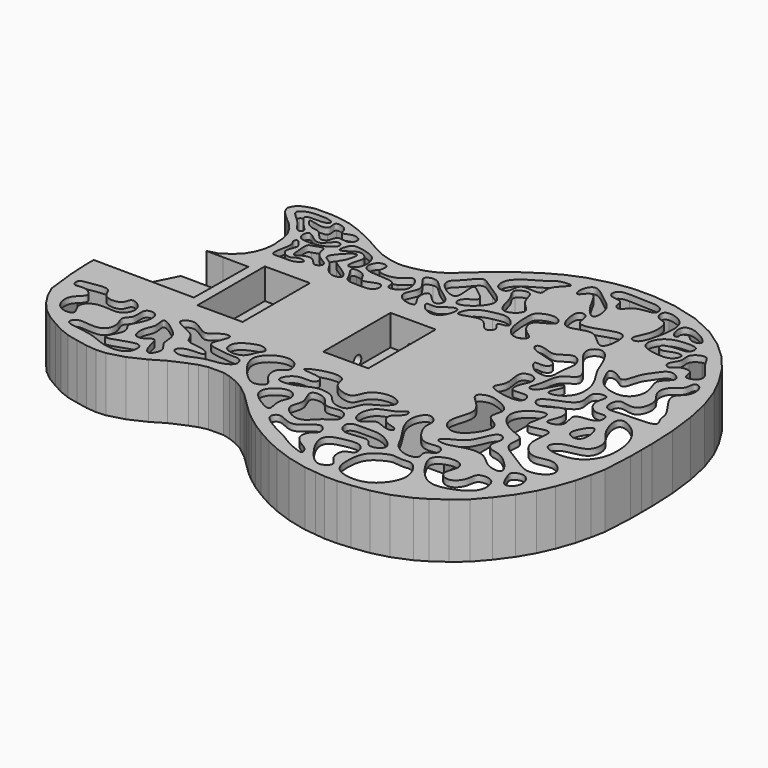
from build123d import *

# Parameters (mm, degrees)
F1_DEPTH  = 5
F0_W      = 37
F0_H      = 69
F2_DEPTH  = 45
F3_DEPTH  = 25
F5_DEPTH  = 25
F6_R      = 4
F7_DEPTH  = 70
F8_R      = 4
F9_DEPTH  = 25
F10_R     = 3.25
F11_DEPTH = 25


with BuildPart() as f1:
    # F0 (on Top) → F1 (new body)
    with BuildSketch(Plane.XY):
        Polygon((-32.4707221198, -37.5104174018), (-332.6976632937, -37.5104174018), (-330.1664699459, -59.6727294792), (-326.3164777328, -68.141276919), (-321.1990287247, -76.0670376853), (-315.3376945663, -82.7219951779), (-308.2899493936, -88.4389698845), (-300.2615013282, -93.1222217788), (-292.73369955, -97.2601737095), (-284.6238464813, -100.4635403496), (-276.4012554364, -102.3133118183), (-267.4110661204, -104.1206262782), (-259.5636443201, -104.8899778526), (-252.525781373, -104.4242236226), (-240.2226259941, -101.0672872094), (-227.2094853431, -94.9748419519), (-216.8735765614, -88.7743225781), (-203.5756291108, -82.9644193665), (-196.737869432, -80.4151739458), (-189.0469780458, -78.7063657042), (-182.0055302189, -78.7063657042), (-175.2989082533, -78.7063657042), (-168.2138558983, -80.5705469802), (-160.8461364602, -83.49376841), (-153.1638915171, -87.6296701655), (-143.6366753027, -95.2042649222), (-135.1231850103, -103.4952493392), (-126.4847691489, -111.9189775673), (-120.4594141441, -117.0085071776), (-111.7494054282, -123.5136995342), (-102.8318567647, -129.1780300241), (-91.8738462321, -135.2882024344), (-81.6369309775, -139.9880499841), (-68.028673885, -144.9071455937), (-52.8047885679, -148.5560938327), (-43.3757851925, -149.603599269), (-35.5509611242, -150.4728900544), (-25.7415568384, -150.4728900544), (-15.3551489634, -149.6004536665), (-1.8048834636, -147.8150458408), (11.1962549184, -144.5137232203), (24.9347631917, -138.8333269755), (33.1140013647, -134.0288175472), (43.3841854483, -126.7989866244), (53.2908534105, -118.5448005533), (62.4257298021, -107.8546168551), (71.1438518828, -96.092352497), (78.2274161373, -84.0106310892), (83.5470142656, -72.1217389918), (88.3698182777, -58.2846753202), (91.2130415087, -46.2819464495), (93.3961476238, -35.4721528315), (94.6682286335, -11.2005859815), (94.6390244633, -0.0065222339), (94.6390244633, 10.6171052227), (93.6788526862, 32.4875615523), (91.0254153791, 53.8212449231), (87.0244372349, 72.5626783849), (81.282279198, 89.0583270318), (74.6125621588, 102.3977611103), (65.5114178648, 116.8340649069), (54.7962535194, 129.6298352531), (42.4133339053, 140.9721790671), (28.8660343473, 150.3828906036), (11.3767548051, 158.5583644658), (-9.2508647454, 163.9757218982), (-27.3291505393, 165.9611943296), (-43.1606593797, 165.9611943296), (-57.5648239554, 163.992283642), (-75.5482938825, 159.2873154462), (-88.493622334, 153.9020564185), (-99.9635118164, 147.5414829057), (-114.4767629266, 137.7953436153), (-125.868587558, 129.0405176417), (-137.9815032852, 117.9995461195), (-147.5662408898, 109.6551843164), (-155.4438037926, 105.0002622746), (-162.7236512832, 102.136058235), (-171.6353374821, 99.9370587465), (-179.1198121422, 98.9140030828), (-184.2962689757, 98.9140030828), (-192.4959067549, 100.4227136195), (-201.2982580111, 103.1216461978), (-210.3323646076, 107.6951211064), (-221.0060126322, 113.7317332933), (-227.4862957981, 116.8668471748), (-235.1548788294, 120.2278625989), (-242.6740490508, 122.970884991), (-249.9127298278, 124.478687257), (-258.0596902072, 125.4968858316), (-265.8642775843, 125.4968858316), (-271.5373187977, 125.4968858316), (-275.8313990771, 124.4454513309), (-279.2689357913, 122.9365418451), (-280.6768574545, 121.8103902971), (-281.3687829974, 120.5420846901), (-281.5725158072, 120.0532065974), (-280.5150750404, 117.7876180559), (-278.2715742582, 115.4614216467), (-274.1347612856, 111.6354937058), (-269.1737946345, 107.4644677365), (-263.925164658, 101.484494804), (-259.8912149749, 94.3001774597), (-257.7818686249, 86.2363168129), (-256.7493646823, 74.4030907107), (-257.8574397676, 65.9091289259), (-258.7365360241, 63.3122452122), (-32.4707221198, 62.4895825982), align=None)
    extrude(amount=-F1_DEPTH)

    # F0 (on Top) → F2 (join)
    with BuildSketch(Plane.XY):
        Polygon((-338.5531406885, -21.6804166221), (-337.7301698558, -37.5104174018), (-332.6976632937, -37.5104174018), (-32.4707221198, -37.5104174018), (-32.4707221198, 62.4895825982), (-258.7365360241, 63.3122452122), (-259.2727711935, 61.7281861654), (-260.5704437718, 57.8948121073), (-265.3429831176, 49.9837478403), (-271.9109243858, 44.0363982072), (-276.4445635712, 41.059576807), (-255.3737163544, 40.8314141162), (-255.9707221198, -14.3021277744), (-338.5531406885, -13.5647143556), align=None)
        with Locations((-228.9707221198, 13.3314141162)):
            Rectangle(F0_W, F0_H, mode=Mode.SUBTRACT)
        with Locations((-125.9707221198, 13.3314141162)):
            Rectangle(F0_W, F0_H, mode=Mode.SUBTRACT)
        Polygon((99.6685702565, -11.3250039883), (99.6390244765, 0), (99.6390244765, 10.7268091013), (98.6652787851, 32.9064472961), (95.9604503006, 54.6533166519), (91.8491035672, 73.9117400835), (85.8984660273, 91.0062932904), (78.974090233, 104.855044879), (69.561272233, 119.7857278614), (58.4173528474, 133.0935063161), (45.5423432318, 144.8865882564), (31.3690085066, 154.732178814), (13.0843307664, 163.2794665729), (-8.3379563824, 168.9055246947), (-27.0554076096, 170.9611943429), (-43.5008038396, 170.9611943429), (-58.5396799613, 168.9055246947), (-77.1489371196, 164.0368334225), (-90.6731092901, 158.4107753008), (-102.5743843698, 151.8109789247), (-117.3968667758, 141.8571803538), (-129.0817481398, 132.8771349113), (-141.3076026377, 121.7332192442), (-150.5040343589, 113.7269120561), (-157.644796432, 109.5073721833), (-164.2445928081, 106.9107294012), (-172.5754794144, 104.855044879), (-179.4599566021, 103.9140030961), (-183.8401046529, 103.9140030961), (-191.3066806823, 105.2878323105), (-199.4225345395, 107.7762745162), (-207.9712353241, 112.1040149654), (-218.6841558711, 118.1628382077), (-225.3932460592, 121.408647263), (-233.2926838898, 124.8708425971), (-241.3003148598, 127.7920573604), (-249.091544677, 129.4149544511), (-257.7484534749, 130.4968858449), (-265.8642775843, 130.4968858449), (-272.140550593, 130.4968858449), (-277.4429068598, 129.1985681723), (-281.8795692721, 127.2510916635), (-284.5848439752, 125.0872288759), (-285.8833996311, 122.7069649356), (-286.9655095123, 120.1103295904), (-286.2080087971, 118.1628382077), (-284.6930668625, 114.9170440262), (-281.7713463848, 111.8876286866), (-277.4429068598, 107.8844750926), (-272.6816055336, 103.8813214985), (-268.0284973468, 98.5798502319), (-264.5657516764, 92.4128264133), (-262.7261708278, 85.3802574796), (-261.7777280237, 74.5104315317), (-262.7516150176, 67.0450900405), (-264.0087674214, 63.3314141162), (-258.7365360241, 63.3122452122), (-257.8574397676, 65.9091289259), (-256.7493646823, 74.4030907107), (-257.7818686249, 86.2363168129), (-259.8912149749, 94.3001774597), (-263.925164658, 101.484494804), (-269.1737946345, 107.4644677365), (-274.1347612856, 111.6354937058), (-278.2715742582, 115.4614216467), (-280.5150750404, 117.7876180559), (-281.5725158072, 120.0532065974), (-281.3687829974, 120.5420846901), (-280.6768574545, 121.8103902971), (-279.2689357913, 122.9365418451), (-275.8313990771, 124.4454513309), (-271.5373187977, 125.4968858316), (-265.8642775843, 125.4968858316), (-258.0596902072, 125.4968858316), (-249.9127298278, 124.478687257), (-242.6740490508, 122.970884991), (-235.1548788294, 120.2278625989), (-227.4862957981, 116.8668471748), (-221.0060126322, 113.7317332933), (-210.3323646076, 107.6951211064), (-201.2982580111, 103.1216461978), (-192.4959067549, 100.4227136195), (-184.2962689757, 98.9140030828), (-179.1198121422, 98.9140030828), (-171.6353374821, 99.9370587465), (-162.7236512832, 102.136058235), (-155.4438037926, 105.0002622746), (-147.5662408898, 109.6551843164), (-137.9815032852, 117.9995461195), (-125.868587558, 129.0405176417), (-114.4767629266, 137.7953436153), (-99.9635118164, 147.5414829057), (-88.493622334, 153.9020564185), (-75.5482938825, 159.2873154462), (-57.5648239554, 163.992283642), (-43.1606593797, 165.9611943296), (-27.3291505393, 165.9611943296), (-9.2508647454, 163.9757218982), (11.3767548051, 158.5583644658), (28.8660343473, 150.3828906036), (42.4133339053, 140.9721790671), (54.7962535194, 129.6298352531), (65.5114178648, 116.8340649069), (74.6125621588, 102.3977611103), (81.282279198, 89.0583270318), (87.0244372349, 72.5626783849), (91.0254153791, 53.8212449231), (93.6788526862, 32.4875615523), (94.6390244633, 10.6171052227), (94.6390244633, -0.0065222339), (94.6682286335, -11.2005859815), (93.3961476238, -35.4721528315), (91.2130415087, -46.2819464495), (88.3698182777, -58.2846753202), (83.5470142656, -72.1217389918), (78.2274161373, -84.0106310892), (71.1438518828, -96.092352497), (62.4257298021, -107.8546168551), (53.2908534105, -118.5448005533), (43.3841854483, -126.7989866244), (33.1140013647, -134.0288175472), (24.9347631917, -138.8333269755), (11.1962549184, -144.5137232203), (-1.8048834636, -147.8150458408), (-15.3551489634, -149.6004536665), (-25.7415568384, -150.4728900544), (-35.5509611242, -150.4728900544), (-43.3757851925, -149.603599269), (-52.8047885679, -148.5560938327), (-68.028673885, -144.9071455937), (-81.6369309775, -139.9880499841), (-91.8738462321, -135.2882024344), (-102.8318567647, -129.1780300241), (-111.7494054282, -123.5136995342), (-120.4594141441, -117.0085071776), (-126.4847691489, -111.9189775673), (-135.1231850103, -103.4952493392), (-143.6366753027, -95.2042649222), (-153.1638915171, -87.6296701655), (-160.8461364602, -83.49376841), (-168.2138558983, -80.5705469802), (-175.2989082533, -78.7063657042), (-182.0055302189, -78.7063657042), (-189.0469780458, -78.7063657042), (-196.737869432, -80.4151739458), (-203.5756291108, -82.9644193665), (-216.8735765614, -88.7743225781), (-227.2094853431, -94.9748419519), (-240.2226259941, -101.0672872094), (-252.525781373, -104.4242236226), (-259.5636443201, -104.8899778526), (-267.4110661204, -104.1206262782), (-276.4012554364, -102.3133118183), (-284.6238464813, -100.4635403496), (-292.73369955, -97.2601737095), (-300.2615013282, -93.1222217788), (-308.2899493936, -88.4389698845), (-315.3376945663, -82.7219951779), (-321.1990287247, -76.0670376853), (-326.3164777328, -68.141276919), (-330.1664699459, -59.6727294792), (-332.6976632937, -37.5104174018), (-337.7301698558, -37.5104174018), (-335.0446588417, -61.0238851628), (-330.7161895688, -70.5449037392), (-325.1974470232, -79.0921766242), (-318.8129511272, -86.3411318366), (-311.1413121223, -92.5641953945), (-302.7258515358, -97.4732041359), (-294.864917595, -101.7942752449), (-286.0998156577, -105.2564631421), (-277.4429068598, -107.2039396509), (-268.1495845318, -109.0721935034), (-259.6430182457, -109.9061667919), (-251.6943133457, -109.3801345349), (-238.4918385579, -105.7778173248), (-224.8572124071, -99.3944072274), (-214.5771387873, -93.2273834088), (-201.6999836038, -87.6013252871), (-195.3155174557, -85.2210762207), (-188.4982043803, -83.7063648324), (-182.0055302189, -83.7063648324), (-175.9456881108, -83.7063648324), (-169.7776379894, -85.3292693601), (-162.9603397879, -88.0341052816), (-155.9265958119, -91.8208725969), (-146.9450481001, -98.9616346699), (-138.6127782162, -107.0761349974), (-129.8476614049, -115.6234153194), (-123.5714032702, -120.924879149), (-114.5898629953, -127.6328686645), (-105.3918918198, -133.475320502), (-94.1379163322, -139.750522586), (-83.5332037984, -144.6192287321), (-69.4657307204, -149.7043211569), (-53.6668773701, -153.4910810352), (-43.927858691, -154.573027303), (-35.8278443603, -155.4728900677), (-25.531931214, -155.4728900677), (-14.8190106669, -154.573027303), (-0.8597464737, -152.7337290596), (12.7748759005, -149.2715485994), (27.1669851036, -143.3209110595), (35.823890183, -138.2358186347), (46.4286027167, -130.7704920175), (56.8168955053, -122.1150185561), (66.3394907208, -110.971102889), (75.3210309956, -98.8534415305), (82.6793990117, -86.3030150515), (88.1981787422, -73.9689674143), (93.1758960951, -59.6874432682), (96.0976016988, -47.3533993494), (98.3700369116, -36.1012868244), align=None)
        Polygon((-311.1413121223, 41.4352856444), (-338.5531406885, -13.5647143556), (-255.9707221198, -14.3021277744), (-255.3737163544, 40.8314141162), (-276.4445635712, 41.059576807), (-290.1576502376, 41.2080670277), align=None)
        with Locations((-125.9707221198, 13.3314141162)):
            Rectangle(F0_W, F0_H)
        with Locations((-228.9707221198, 13.3314141162)):
            Rectangle(F0_W, F0_H)
        Polygon((-258.7365360241, 63.3122452122), (-264.0087674214, 63.3314141162), (-265.1322805547, 60.0125136699), (-269.244304053, 53.1963347334), (-274.9794923732, 48.0030528877), (-282.2296523759, 43.2425435995), (-290.1576502376, 41.2080670277), (-276.4445635712, 41.059576807), (-271.9109243858, 44.0363982072), (-265.3429831176, 49.9837478403), (-260.5704437718, 57.8948121073), (-259.2727711935, 61.7281861654), align=None)
    extrude(amount=-F2_DEPTH)

    # F0 (on Top) → F3 (cut)
    with BuildSketch(Plane.XY):
        Polygon((-311.1413121223, 41.4352856444), (-338.5531406885, -13.5647143556), (-255.9707221198, -14.3021277744), (-255.3737163544, 40.8314141162), (-276.4445635712, 41.059576807), (-290.1576502376, 41.2080670277), align=None)
        with Locations((-228.9707221198, 13.3314141162)):
            Rectangle(F0_W, F0_H)
        with Locations((-125.9707221198, 13.3314141162)):
            Rectangle(F0_W, F0_H)
    extrude(amount=-F3_DEPTH, mode=Mode.SUBTRACT)

    # F4 (on face) → F5 (cut)
    with BuildSketch(Plane.XY):
        with BuildLine():
            add(Edge.make_bspline(
                [(-255.8690607548, 119.108363986), (-253.3976972977, 119.5907813306), (-250.7751103391, 121.91547954), (-256.9217740027, 124.8973901668), (-265.7136550596, 124.7700939361), (-272.9030152945, 124.5628382395), (-282.840576449, 118.9415438811), (-268.5651389288, 110.1507747574), (-263.1897171432, 98.2606527334), (-257.3958106227, 101.7867096734), (-262.4062968702, 106.3303129286), (-266.5234130241, 111.1861969146), (-274.2161424459, 120.3378180618), (-260.3126971884, 118.2409532123), (-255.8690607548, 119.108363986)],
                knots=[0, 0, 0, 0, 0.0633142811, 0.1294244789, 0.2204338031, 0.305103609, 0.3854733268, 0.4963743474, 0.6012940766, 0.655800124, 0.7237420536, 0.8089722942, 0.8861577218, 1, 1, 1, 1], degree=3))
        make_face()
        with BuildLine():
            add(Edge.make_bspline(
                [(-258.9418292046, 109.1580614448), (-256.1571885664, 107.7627157178), (-250.9470195975, 109.3259529934), (-245.1342785004, 99.6360976369), (-241.6014338926, 99.2666264633), (-237.5382998149, 101.0908265668), (-237.0826171444, 110.5953806278), (-226.0256219284, 105.0542275052), (-221.5930228555, 114.383478613), (-230.2470393119, 118.6217130046), (-239.2886215227, 112.0887489165), (-237.9711941448, 121.4309517105), (-252.0101905977, 125.0629646308), (-246.9407792152, 114.5038921528), (-255.620847685, 112.8341621997), (-268.3677393951, 118.1683482788), (-261.8227237998, 110.6016387265), (-258.9418292046, 109.1580614448)],
                knots=[0, 0, 0, 0, 0.0702906668, 0.148667965, 0.1928547493, 0.2421776967, 0.3073772813, 0.3817742654, 0.4463780167, 0.5147160254, 0.5850216751, 0.6455732937, 0.7218017618, 0.7856345935, 0.8524051324, 0.9272796643, 1, 1, 1, 1], degree=3))
        make_face()
        with BuildLine():
            add(Edge.make_bspline(
                [(-246.670410037, 91.4388746023), (-250.4684378368, 91.390356399), (-257.1435739557, 92.3302930014), (-255.327671651, 107.3290489408), (-240.6883714451, 88.294094462), (-233.4056887725, 105.885509354), (-225.8776462382, 100.4239440029), (-233.2236630181, 93.0490581828), (-242.0081585018, 91.4984328994), (-246.670410037, 91.4388746023)],
                knots=[0, 0, 0, 0, 0.1406333922, 0.2639657739, 0.4367873692, 0.5989697719, 0.698297019, 0.827366127, 1, 1, 1, 1], degree=3))
        make_face()
        with BuildLine():
            add(Edge.make_bspline(
                [(-253.7738978863, 75.8455097675), (-253.2048132867, 79.1231333459), (-252.8819314165, 84.0887671224), (-255.8533725493, 86.2045564413), (-253.9559851889, 90.7690378573), (-249.536211095, 85.0567483909), (-247.2286751115, 81.6288762196), (-253.5632013454, 71.80007685), (-242.5661490863, 65.9131690142), (-238.7785134925, 71.5192466194), (-229.8511615796, 69.7187818786), (-237.1471136722, 63.5654549351), (-245.2743686381, 64.7945535963), (-253.1105583699, 63.5936503178), (-256.0069926042, 66.4748404432), (-254.3882848231, 72.3069689041), (-253.7738978863, 75.8455097675)],
                knots=[0, 0, 0, 0, 0.0832112387, 0.133839475, 0.1817596365, 0.2499486497, 0.3095260282, 0.3979628119, 0.4831206973, 0.5547296841, 0.6230083542, 0.6935860815, 0.7811285129, 0.8606723643, 0.9101646784, 1, 1, 1, 1], degree=3))
        make_face()
        with BuildLine():
            add(Edge.make_bspline(
                [(-228.8080602884, 73.7416446209), (-230.8200374172, 75.4415539306), (-236.2558203668, 76.7465889767), (-243.7173841073, 69.4092295121), (-244.5248872265, 78.5480973555), (-245.5563534076, 88.7252390336), (-241.2124784722, 88.7835711108), (-231.7402066095, 94.0672975969), (-233.9188692286, 80.5212389891), (-215.6190211948, 74.9407717976), (-224.5968036776, 67.4443652338), (-226.9453808745, 72.1678761961), (-228.8080602884, 73.7416446209)],
                knots=[0, 0, 0, 0, 0.1006461626, 0.198505994, 0.2913328872, 0.4043486605, 0.4735460264, 0.5729677298, 0.68282334, 0.8213508845, 0.9068222335, 1, 1, 1, 1], degree=3))
        make_face()
        with BuildLine():
            add(Edge.make_bspline(
                [(-222.3562151194, 89.0297144651), (-224.5928109825, 86.1556616783), (-226.4908701665, 81.8573918767), (-217.5742997249, 78.4997616333), (-214.3796441409, 70.8371372066), (-207.40036751, 63.9175195898), (-197.2546323404, 66.2988540936), (-204.4841743713, 75.0443761276), (-218.5609704627, 81.1640705265), (-212.360887193, 85.7214990129), (-208.4940395619, 103.4577025226), (-219.2327420356, 93.0434152276), (-222.3562151194, 89.0297144651)],
                knots=[0, 0, 0, 0, 0.0886089596, 0.1799879643, 0.2775724015, 0.3805125506, 0.4663325629, 0.564576318, 0.6860000124, 0.765347089, 0.8762549351, 1, 1, 1, 1], degree=3))
        make_face()
        with BuildLine():
            add(Edge.make_bspline(
                [(-220.6731289625, 96.3231027126), (-222.3916271932, 95.3869671169), (-226.0259297628, 94.6766623718), (-223.6327045443, 102.222260611), (-221.0668198792, 107.2463749692), (-206.9327113168, 103.938294721), (-198.9350656605, 99.5210015719), (-197.1800008946, 84.6901069223), (-208.278135028, 79.0607160103), (-206.3006319121, 90.1191865444), (-203.1993182955, 96.5608690793), (-212.326543338, 103.6027754194), (-217.9421018916, 97.8108037811), (-220.6731289625, 96.3231027126)],
                knots=[0, 0, 0, 0, 0.0640794377, 0.1428746933, 0.2147899875, 0.3306574722, 0.4286115712, 0.544448253, 0.6310870011, 0.7206478171, 0.8064490124, 0.8981653424, 1, 1, 1, 1], degree=3))
        make_face()
        with BuildLine():
            add(Edge.make_bspline(
                [(-194.0242052078, 85.5232775211), (-188.6224969432, 82.003199027), (-165.5498815286, 85.9529451001), (-171.0185423308, 71.2978996735), (-151.1187867997, 78.2670345587), (-162.7057434217, 99.3245638197), (-168.6900443179, 86.06407457), (-189.741094188, 85.9529642871), (-184.7953032385, 95.3074651454), (-189.1142568021, 99.1204471587), (-196.6238791897, 96.1651711253), (-197.4051866353, 87.7265286833), (-194.0242052078, 85.5232775211)],
                knots=[0, 0, 0, 0, 0.1536854669, 0.2345481423, 0.3425513793, 0.4617355642, 0.5581588051, 0.6811900761, 0.7600355273, 0.823388197, 0.9038067804, 1, 1, 1, 1], degree=3))
        make_face()
        with BuildLine():
            add(Edge.make_bspline(
                [(-197.670891881, 71.9183012843), (-196.204531211, 69.3745041139), (-195.362224498, 64.8417221693), (-185.2804081783, 64.8534891256), (-170.7013390838, 64.2840467184), (-172.2633325332, 79.1735603003), (-188.3519773204, 67.0818875139), (-189.3065538858, 80.2623075235), (-205.7695361308, 82.1221387198), (-199.3604537454, 74.8493009884), (-197.670891881, 71.9183012843)],
                knots=[0, 0, 0, 0, 0.105387671, 0.2293824997, 0.3744584023, 0.4843162896, 0.6291589782, 0.7507632744, 0.8785708089, 1, 1, 1, 1], degree=3))
        make_face()
        with BuildLine():
            add(Edge.make_bspline(
                [(-157.8377634287, 98.4269678593), (-157.6395566972, 95.5714064677), (-146.0281699015, 86.565690479), (-157.910773948, 74.2825219525), (-149.0777564533, 65.3730186058), (-135.5805257092, 65.1794469388), (-146.5955212521, 75.3747101085), (-142.4797963915, 89.526327794), (-131.6548268809, 71.8572164008), (-123.2647511252, 83.3342350415), (-141.4825897655, 92.8018491714), (-147.4933051844, 101.4760671754), (-153.9642258103, 102.3931011361), (-157.9556606456, 100.1255112852), (-157.8377634287, 98.4269678593)],
                knots=[0, 0, 0, 0, 0.0982290465, 0.1925813733, 0.2769317608, 0.3524626791, 0.4389504055, 0.5141935034, 0.610548115, 0.6779744843, 0.7902080259, 0.8777345962, 0.9415714537, 1, 1, 1, 1], degree=3))
        make_face()
        with BuildLine():
            add(Edge.make_bspline(
                [(-120.3890144825, 76.967574656), (-123.0189355491, 75.1521225976), (-126.4089822834, 70.937973493), (-137.1159338993, 74.2365277974), (-130.1811473047, 63.7446919953), (-115.8752382454, 61.3232365172), (-110.910958708, 81.6373225203), (-118.079790368, 78.5616474688), (-120.3890144825, 76.967574656)],
                knots=[0, 0, 0, 0, 0.1622744172, 0.3047126743, 0.4593851004, 0.6531476653, 0.8575135953, 1, 1, 1, 1], degree=3))
        make_face()
        with BuildLine():
            add(Edge.make_bspline(
                [(-141.0462260246, 99.0054532886), (-143.3833945663, 101.9565247834), (-143.2877465507, 107.1070781083), (-136.0067726211, 111.2998529234), (-128.1542246962, 124.9044240452), (-117.9897533975, 115.2042828053), (-90.374689361, 101.7903061783), (-120.0880077544, 78.5824865207), (-122.9984665284, 92.3518844729), (-107.862568231, 97.2793273129), (-118.1727361663, 104.713918582), (-129.3424915266, 114.2246077969), (-120.3253749749, 84.0629712249), (-137.6066860804, 94.6624510173), (-141.0462260246, 99.0054532886)],
                knots=[0, 0, 0, 0, 0.0650440688, 0.1329386441, 0.2165869629, 0.2980757499, 0.4118914399, 0.5267571166, 0.5872533058, 0.6664969615, 0.740066529, 0.8077099803, 0.9042766199, 1, 1, 1, 1], degree=3))
        make_face()
        with BuildLine():
            add(Edge.make_bspline(
                [(-109.7512841225, 73.7673714757), (-107.2805439255, 72.4476262008), (-90.8788688816, 83.0483537519), (-84.4137164116, 64.0619939624), (-74.8502568902, 72.680275527), (-85.7543999919, 79.9618744768), (-69.9697819171, 79.1094399077), (-80.9058042173, 91.4955689363), (-90.5724630077, 90.074147507), (-107.6009499004, 86.6065130171), (-111.6491998694, 74.78114271), (-109.7512841225, 73.7673714757)],
                knots=[0, 0, 0, 0, 0.1397738798, 0.2653851764, 0.3519832121, 0.4418082874, 0.5334231031, 0.6408080372, 0.7504075594, 0.8926317515, 1, 1, 1, 1], degree=3))
        make_face()
        with BuildLine():
            add(Edge.make_bspline(
                [(-83.1471383572, 96.8762636185), (-85.74814349, 95.2646080818), (-92.1229425561, 94.2036966066), (-95.8243863246, 104.9539674249), (-97.2886782136, 113.1336698817), (-105.105123139, 121.9621863009), (-89.242137155, 128.4691573028), (-89.5213480427, 112.4238433203), (-75.4315288527, 104.9348976034), (-80.4695688497, 98.5353605833), (-83.1471383572, 96.8762636185)],
                knots=[0, 0, 0, 0, 0.1119796135, 0.2361905449, 0.3583855295, 0.4756023822, 0.6004073127, 0.7396920069, 0.8847241035, 1, 1, 1, 1], degree=3))
        make_face()
        with BuildLine():
            add(Edge.make_bspline(
                [(-94.6148782969, 128.9316266775), (-98.1369914027, 129.2020518422), (-104.9632069917, 129.6770889493), (-102.7361409101, 116.1391255226), (-114.435881352, 117.0650955224), (-116.4730535914, 128.9155708579), (-106.4276768152, 138.1509766697), (-93.2974980904, 144.2307955016), (-89.9123086362, 149.7238580969), (-71.4227911812, 151.7874073353), (-89.8855201068, 139.609378058), (-83.5441434329, 128.033630807), (-91.1154240963, 128.6629412464), (-94.6148782969, 128.9316266775)],
                knots=[0, 0, 0, 0, 0.0836861392, 0.1725117162, 0.2510842438, 0.34014489, 0.4456327434, 0.5538325223, 0.6317571066, 0.7241448917, 0.8301968457, 0.9168522411, 1, 1, 1, 1], degree=3))
        make_face()
        with BuildLine():
            add(Edge.make_bspline(
                [(-69.319948554, 147.5109010935), (-69.4007772554, 151.2430974983), (-65.4810236901, 161.7246439417), (-50.1321404999, 147.7762115957), (-38.5653452599, 140.7187960691), (-37.1601444525, 119.9628715098), (-50.3631707732, 132.1868840574), (-56.257946845, 148.1589075228), (-62.4046192229, 149.2510578202), (-67.1454792874, 140.1475878169), (-69.2627910879, 144.8717038031), (-69.319948554, 147.5109010935)],
                knots=[0, 0, 0, 0, 0.1094935152, 0.2455206031, 0.3802063788, 0.5019291633, 0.616907277, 0.7614668786, 0.8312873791, 0.9225724058, 1, 1, 1, 1], degree=3))
        make_face()
        with BuildLine():
            add(Edge.make_bspline(
                [(-33.8497087359, 143.6371058226), (-31.4624948625, 144.3464840878), (-26.898341275, 153.3893942809), (-9.8016426039, 150.8670353138), (-12.9820718049, 163.6821923227), (-30.7125799169, 162.153678209), (-50.8702209958, 164.9675706827), (-51.1673956007, 152.2242342018), (-37.2499844644, 154.1485978641), (-38.8851927717, 145.3514839029), (-35.3540550711, 143.1900781786), (-33.8497087359, 143.6371058226)],
                knots=[0, 0, 0, 0, 0.1164293388, 0.2454351039, 0.3370707896, 0.4842039507, 0.6347780811, 0.7253910134, 0.8373160386, 0.9266299299, 1, 1, 1, 1], degree=3))
        make_face()
        with BuildLine():
            add(Edge.make_bspline(
                [(2.7040198911, 142.6888853312), (2.206936384, 144.7835979713), (0.6723791529, 147.8832619326), (-7.7033334693, 148.5418572163), (-10.085087962, 159.8184228936), (2.9608206252, 158.1169022045), (11.0103497424, 151.50443162), (11.5496853224, 139.0505517374), (8.8459536697, 126.5386023047), (4.9514248124, 113.7856955806), (-5.0627851667, 116.0726517284), (4.0534457454, 128.8777893318), (3.5218910678, 139.2423716826), (2.7040198911, 142.6888853312)],
                knots=[0, 0, 0, 0, 0.0665671033, 0.1461646862, 0.2252131264, 0.3168066958, 0.4103315915, 0.5094900192, 0.6191324739, 0.7192903977, 0.7856367909, 0.8904745092, 1, 1, 1, 1], degree=3))
        make_face()
        with BuildLine():
            add(Edge.make_bspline(
                [(17.5805725157, 136.14320755), (15.669147012, 136.7952256468), (12.8982663504, 144.0535466212), (14.728885858, 151.2520935841), (26.0687494116, 150.5400688718), (42.4179954974, 138.3551867638), (28.0097454698, 136.3548859003), (25.2357832642, 144.4349476941), (18.1954708764, 139.7504939036), (20.9228983465, 137.0295822631), (18.626915518, 135.7862830602), (17.5805725157, 136.14320755)],
                knots=[0, 0, 0, 0, 0.1260216631, 0.2314538157, 0.3709444344, 0.5344195957, 0.6530936392, 0.7649954255, 0.8642784699, 0.9310138506, 1, 1, 1, 1], degree=3))
        make_face()
        with BuildLine():
            add(Edge.make_bspline(
                [(11.2332440913, 114.3242567778), (9.4009057271, 116.6772892244), (9.819422233, 123.7733747773), (17.1746871751, 131.2462298837), (27.2837029259, 133.2857949113), (41.339281867, 133.4759913212), (38.8842456449, 123.1724482623), (29.9826830623, 124.3348140028), (16.20003207, 121.562240228), (22.6629694522, 113.6522996998), (30.5774859419, 119.0819889321), (40.2791788976, 119.3132678977), (36.5938857229, 108.9883155283), (24.180773399, 109.0202309718), (13.5314455126, 111.372977353), (11.2332440913, 114.3242567778)],
                knots=[0, 0, 0, 0, 0.0753609661, 0.1547148146, 0.2395265352, 0.3250447865, 0.387667396, 0.4636044164, 0.5478379379, 0.6061830378, 0.6836757654, 0.7509772668, 0.8170309975, 0.9054788773, 1, 1, 1, 1], degree=3))
        make_face()
        with BuildLine():
            add(Edge.make_bspline(
                [(38.0110442638, 103.6015078425), (37.856675466, 106.1880301058), (44.1700446026, 111.9058650118), (39.1065124305, 121.6862366503), (53.1238490963, 128.9996007592), (55.4489509404, 117.1977511477), (75.157081789, 100.6574372612), (56.1355834891, 92.8289782223), (58.9277088867, 106.2918290215), (45.1109103366, 105.0306033814), (42.0495507751, 98.1240212383), (38.1229120107, 101.7271108016), (38.0110442638, 103.6015078425)],
                knots=[0, 0, 0, 0, 0.0994665995, 0.1967754408, 0.3008017296, 0.4039433998, 0.5512665226, 0.6538805634, 0.7450100675, 0.8485520923, 0.9279186952, 1, 1, 1, 1], degree=3))
        make_face()
        with BuildLine():
            add(Edge.make_bspline(
                [(-51.3018667698, 115.4804453254), (-51.8115314368, 119.2623863883), (-51.3587178447, 125.040470395), (-41.906859435, 123.5412006925), (-43.9437776992, 107.6985041093), (-22.8965841072, 114.523659829), (-4.3412907712, 121.7569227283), (-7.2959377763, 92.1848606532), (-17.6642731738, 100.2514383959), (-27.6185756557, 110.7974007911), (-46.6568944291, 98.2704291556), (-50.6496589235, 110.6407697607), (-51.3018667698, 115.4804453254)],
                knots=[0, 0, 0, 0, 0.0818512813, 0.1497758068, 0.2414815902, 0.3626147497, 0.4719799925, 0.5944317151, 0.6739227832, 0.7789625695, 0.8952565258, 1, 1, 1, 1], degree=3))
        make_face()
        with BuildLine():
            add(Edge.make_bspline(
                [(-72.7661922574, 99.1810560226), (-72.707926303, 102.1889607638), (-72.390203929, 106.1731121985), (-58.1002393682, 111.8639344852), (-49.3666587787, 102.7275842723), (-59.5647295073, 97.7996236426), (-67.8795238647, 93.2222093115), (-61.9127787041, 81.434219811), (-50.7409902529, 76.7509732582), (-60.0204872763, 69.2618417579), (-72.6359312664, 76.5372149343), (-72.8715506412, 93.742065352), (-72.7661922574, 99.1810560226)],
                knots=[0, 0, 0, 0, 0.0802542624, 0.1934286228, 0.2826126668, 0.3756635296, 0.4648316149, 0.5689183661, 0.6641135347, 0.7470118891, 0.8548816461, 1, 1, 1, 1], degree=3))
        make_face()
        with BuildLine():
            add(Edge.make_bspline(
                [(-29.154535383, 51.5890307724), (-28.374376474, 52.7223321579), (-20.2124862123, 50.2084534459), (-15.512237496, 60.9191077565), (-42.3946496767, 63.605527303), (-44.1310689625, 72.1971060862), (-35.0390842764, 71.3146108894), (-26.08694051, 66.0791976945), (-15.5790302395, 78.5802882048), (-5.1897898332, 66.4818968415), (-9.7562872761, 55.6197076177), (-7.8013888112, 41.2875066508), (-17.1044841397, 41.3752724517), (-23.5344366548, 42.5320199118), (-29.9915973257, 50.3730689364), (-29.154535383, 51.5890307724)],
                knots=[0, 0, 0, 0, 0.0706133952, 0.1299404168, 0.2509313346, 0.3051558621, 0.370967732, 0.4485551067, 0.5356222821, 0.61772551, 0.7046365292, 0.7909940205, 0.8548675485, 0.9242362228, 1, 1, 1, 1], degree=3))
        make_face()
        with BuildLine():
            add(Edge.make_bspline(
                [(-4.3642041273, 46.6887578368), (-1.5320265792, 50.0404409415), (11.4039755915, 53.0422020766), (-7.5198839438, 72.5907730772), (-16.8150169324, 86.1669350486), (-5.1137921883, 95.0309402224), (4.7190102283, 80.5024601879), (8.3995348064, 66.4810340665), (21.8525578993, 50.1125677197), (20.3048585094, 26.9014006889), (-2.5965847289, 21.2174159917), (9.048765998, 36.4563944209), (2.5984021547, 40.8316155856), (-3.2125989774, 20.1871141621), (-12.7723127371, 21.9648751319), (-7.0255805643, 31.2413030366), (-7.6645869008, 42.7829867499), (-4.3642041273, 46.6887578368)],
                knots=[0, 0, 0, 0, 0.0643694202, 0.1504055194, 0.2231833822, 0.2776808971, 0.3475212723, 0.4203460021, 0.5044594911, 0.5886887898, 0.6547762347, 0.7186403077, 0.7501044801, 0.8297584289, 0.8710279288, 0.9249892629, 1, 1, 1, 1], degree=3))
        make_face()
        with BuildLine():
            add(Edge.make_bspline(
                [(25.6846975535, 54.541952908), (21.4203515973, 57.4430765956), (18.1350603045, 64.1559333835), (13.0763055763, 73.8548178432), (21.8864012927, 73.2126224438), (30.8156192408, 64.0261974755), (33.1653573048, 80.4804196614), (39.2636879467, 87.7137324953), (45.8762123242, 98.8648425721), (60.4666895162, 89.4252233025), (43.859462979, 80.997908633), (54.9718830555, 66.7013333484), (47.3465954498, 46.9217815375), (30.8376193164, 51.0363125261), (25.6846975535, 54.541952908)],
                knots=[0, 0, 0, 0, 0.0901206563, 0.1581053105, 0.2178718876, 0.291840497, 0.3755384832, 0.4574047994, 0.5372650307, 0.614630239, 0.6978940707, 0.7920450406, 0.8911006058, 1, 1, 1, 1], degree=3))
        make_face()
        with BuildLine():
            add(Edge.make_bspline(
                [(67.4814283848, 84.8375707865), (66.1110324444, 82.0141244022), (58.671786688, 79.4804251435), (56.094510448, 66.4718140996), (67.3716955052, 58.5203341359), (61.7774477416, 37.720894884), (43.5102984148, 48.5672583557), (43.353137953, 28.051461584), (58.3777197744, 32.293915508), (89.7730247111, 30.1858340798), (81.3437480313, 40.958142113), (82.5528468195, 48.251685368), (70.7249361122, 62.002095714), (67.399852011, 72.0197762017), (77.3310384724, 77.7713335479), (76.5294484207, 91.1893474983), (67.6684989892, 94.0375511293), (68.6768732513, 87.3005629675), (67.4814283848, 84.8375707865)],
                knots=[0, 0, 0, 0, 0.0587545366, 0.1193666545, 0.1854617064, 0.2568261724, 0.3245495204, 0.3863245981, 0.4556453314, 0.5501524072, 0.5995391483, 0.6505614904, 0.7289407676, 0.7846235104, 0.8423914477, 0.9057218385, 0.9487463389, 1, 1, 1, 1], degree=3))
        make_face()
        with BuildLine():
            add(Edge.make_bspline(
                [(20.3549135476, 21.721702069), (24.8397662423, 23.7650847496), (30.1808450165, 28.3112410185), (23.3484141391, 43.4128141963), (40.424615955, 45.2098778915), (32.2490068203, 32.5388805616), (42.9762175653, 19.7969920192), (53.4829560703, 24.6627986844), (54.924814203, 13.6755188487), (46.5799865405, 11.1789398242), (32.5758863, 10.9693374411), (43.029598435, -5.7294950216), (22.9632075752, -10.6137628682), (33.9666241527, 4.3717988546), (25.102085229, 18.6088982279), (10.7017919971, 2.2416460954), (-0.6801676688, 15.0596519094), (14.4888978291, 19.0490357099), (20.3549135476, 21.721702069)],
                knots=[0, 0, 0, 0, 0.0621466883, 0.1280738006, 0.1844114943, 0.2439994671, 0.3139545458, 0.3690824924, 0.418674334, 0.4728799089, 0.5321760161, 0.5996936973, 0.6600629328, 0.7259543572, 0.7881541881, 0.8645731939, 0.9187145096, 1, 1, 1, 1], degree=3))
        make_face()
        with BuildLine():
            add(Edge.make_bspline(
                [(-14.4289433956, 30.4176658392), (-14.4124972583, 32.935933595), (-17.8033637697, 38.0546991199), (-30.5228617797, 35.2612159413), (-22.6752320762, 17.7188747476), (-32.9411334388, 8.7127662812), (-18.3071072185, 3.8802317121), (-0.1779175935, 2.3536985497), (-3.5117526454, 16.1600457016), (-18.4082563438, 10.1389582495), (-18.818782603, 21.7556753762), (-14.4483827212, 27.4410746907), (-14.4289433956, 30.4176658392)],
                knots=[0, 0, 0, 0, 0.0841783155, 0.1740423024, 0.2980829735, 0.3920045662, 0.5000240992, 0.623075279, 0.7075052522, 0.8136703279, 0.9005012759, 1, 1, 1, 1], degree=3))
        make_face()
        with BuildLine():
            add(Edge.make_bspline(
                [(50.0895008445, -11.6595793515), (51.521665662, -13.2877470201), (57.5531302712, -15.8321158315), (62.7927035845, -9.0649483833), (58.0439664181, 10.6391479226), (48.8306259727, -5.8005334505), (48.7619933214, -10.1503921391), (50.0895008445, -11.6595793515)],
                knots=[0, 0, 0, 0, 0.1797033961, 0.3600190742, 0.6012104294, 0.8334286618, 1, 1, 1, 1], degree=3))
        make_face()
        with BuildLine():
            add(Edge.make_bspline(
                [(66.0788565874, 5.4518319666), (62.67805063, 11.3785224018), (57.6154429745, 30.0211232552), (84.0043265938, 15.9391696198), (89.8842845351, -8.2087268835), (87.2531509228, -26.7853013951), (73.104245154, -40.4778892701), (45.9204553478, -37.4096046749), (52.5402500073, -23.2031762681), (75.4017361978, -24.4758633228), (76.7678946773, -5.0976298576), (69.2224288333, -0.0265692698), (66.0788565874, 5.4518319666)],
                knots=[0, 0, 0, 0, 0.1017989203, 0.2046696987, 0.3259841936, 0.4269962303, 0.5305831264, 0.6406866364, 0.7109452091, 0.8178425697, 0.9059010527, 1, 1, 1, 1], degree=3))
        make_face()
        with BuildLine():
            add(Edge.make_bspline(
                [(22.0380034298, 0), (24.1220737671, -3.5916053917), (13.0798882263, -27.0537186435), (44.3144203956, -10.4507120695), (33.4865740864, -37.8212362854), (50.8720655267, -54.0560868316), (66.1250404843, -44.2027686641), (82.482439541, -61.8014506069), (60.4063170869, -72.3428513333), (47.2025615387, -60.1825104002), (25.1121140295, -50.3365935745), (32.3892505597, -34.8818638083), (17.2431703302, -32.0552739347), (1.6563655135, -19.8760829078), (3.6794427601, -4.3287797927), (20.1247480243, 3.2972296122), (22.0380034298, 0)],
                knots=[0, 0, 0, 0, 0.0766065469, 0.1475469485, 0.2232807757, 0.3006359363, 0.3696939232, 0.4390851166, 0.509900253, 0.585741004, 0.6669140282, 0.7255314111, 0.7873687448, 0.8639585074, 0.9296722921, 1, 1, 1, 1], degree=3))
        make_face()
        with BuildLine():
            add(Edge.make_bspline(
                [(-28.7352111191, -10.5375191197), (-25.7959137034, -13.8641274315), (-11.8308672794, -23.8182511156), (-27.0458916864, -46.0480983522), (-9.3817815324, -60.4833212696), (5.1622986944, -44.4898599207), (7.8471479254, -30.473738428), (-8.8327232386, -25.6027246996), (0.4621090957, -11.7218152086), (-14.0887836295, -3.9250519604), (-23.6578323093, -1.7573552444), (-31.431466582, -5.9219994128), (-30.2100491841, -8.8683418056), (-28.7352111191, -10.5375191197)],
                knots=[0, 0, 0, 0, 0.1081576899, 0.2278740802, 0.3267619435, 0.4370497505, 0.5256123504, 0.6153981411, 0.7008539564, 0.7950498133, 0.8786086188, 0.9457302016, 1, 1, 1, 1], degree=3))
        make_face()
        with BuildLine():
            add(Edge.make_bspline(
                [(-4.8383618705, -64.8978054523), (-1.0441817432, -62.7588512193), (6.741778184, -59.6230368567), (10.812908172, -44.0800367602), (16.5531634824, -38.8610014918), (22.997061595, -44.7166413971), (17.9844056556, -53.7710425047), (24.1080356043, -61.25382312), (34.4750339, -59.7446103477), (55.0873300592, -82.3462292973), (34.7975476375, -79.4754115492), (27.2715715824, -68.1930331911), (11.484396535, -66.856214955), (-1.837204311, -73.5859088839), (-14.0576299945, -70.8512109033), (-7.8882201863, -66.6171511703), (-4.8383618705, -64.8978054523)],
                knots=[0, 0, 0, 0, 0.0758787825, 0.1605397516, 0.2135616152, 0.2663504053, 0.3314377938, 0.3896624771, 0.4611447471, 0.5600844189, 0.6307837294, 0.7118537674, 0.7931884605, 0.8795332644, 0.9390067082, 1, 1, 1, 1], degree=3))
        make_face()
        with BuildLine():
            add(Edge.make_bspline(
                [(56.0333840549, -83.9728266001), (54.8748564924, -81.2759052103), (52.719065382, -77.0912892376), (61.2000444889, -73.1051451132), (68.3872170152, -77.2925967785), (70.5743104341, -88.6560799104), (60.4387737508, -95.4192896225), (57.4672704711, -87.3107523186), (56.0333840549, -83.9728266001)],
                knots=[0, 0, 0, 0, 0.1502294043, 0.3038029714, 0.4629657224, 0.6493292468, 0.814064068, 1, 1, 1, 1], degree=3))
        make_face()
        with BuildLine():
            add(Edge.make_bspline(
                [(45.0932979584, -115.6710162759), (48.8857942481, -113.5739428779), (54.3536263433, -108.962202397), (54.8910929384, -98.9840688217), (50.5715106982, -90.8920539679), (37.3927038397, -91.2162113452), (38.7548302013, -101.8476217213), (30.2364882231, -112.1178648554), (17.0606437468, -104.8497899384), (26.596197793, -91.2092714757), (15.7458865658, -83.5015651583), (-0.0604250101, -89.8635927116), (2.2300685712, -100.5239411934), (15.7780383053, -118.9609014852), (29.1461078454, -122.1381453413), (40.4654057215, -118.2300246327), (45.0932979584, -115.6710162759)],
                knots=[0, 0, 0, 0, 0.0702302379, 0.1334822572, 0.1939889231, 0.2591013325, 0.3215418646, 0.3918684234, 0.4577078558, 0.5323195291, 0.5975718155, 0.6767231162, 0.7389074469, 0.8380893287, 0.9142997256, 1, 1, 1, 1], degree=3))
        make_face()
        with BuildLine():
            add(Edge.make_bspline(
                [(-25.0594299287, -107.1746647358), (-22.9674564735, -106.1725355021), (-19.5972693757, -104.8363921819), (-11.3097423444, -106.941592133), (-4.0784549808, -104.7712839615), (3.2538910279, -112.728737652), (7.1282217245, -125.0581264548), (0.5890559432, -137.7425579272), (-9.1296555486, -146.2484563779), (-24.0713991663, -147.4847554871), (-37.0541154659, -142.2180777588), (-38.6437193627, -128.7579219978), (-36.6084738751, -113.2536576561), (-28.0179265256, -108.5918891849), (-25.0594299287, -107.1746647358)],
                knots=[0, 0, 0, 0, 0.0609817618, 0.1322361141, 0.1979154747, 0.2753515381, 0.3638325116, 0.4557223794, 0.5443580698, 0.6398441899, 0.7280685036, 0.816349183, 0.9137587839, 1, 1, 1, 1], degree=3))
        make_face()
        with BuildLine():
            add(Edge.make_bspline(
                [(-5.6799082085, -96.3154807687), (-5.3241154212, -94.479124292), (-8.9658886209, -88.9788104377), (2.646043496, -86.1533102774), (-2.0484702219, -75.8264125208), (-12.8581538423, -79.6063476017), (-21.9411655669, -75.8869325772), (-30.5383760773, -61.1650027126), (-27.1462358236, -52.553655509), (-37.2095512155, -44.4665550753), (-45.0060424206, -58.0695557774), (-38.385568619, -72.9530721452), (-30.7140150632, -82.3618867897), (-25.804082904, -95.2477685592), (-12.3013049602, -100.9665780117), (-6.0484835082, -98.2178117398), (-5.6799082085, -96.3154807687)],
                knots=[0, 0, 0, 0, 0.0556414646, 0.1196752819, 0.1785599068, 0.2485969104, 0.3172554476, 0.4058036347, 0.4707172148, 0.5356813608, 0.6108516916, 0.6996954354, 0.7783136984, 0.8596203418, 0.9423595132, 1, 1, 1, 1], degree=3))
        make_face()
        with BuildLine():
            add(Edge.make_bspline(
                [(-54.3090477586, -55.5160567164), (-58.1710641302, -58.2091654838), (-72.1258614171, -59.5545232263), (-74.2211624255, -79.3255347985), (-64.075245102, -83.739556613), (-58.8985419291, -73.0782647157), (-49.3481276152, -79.0832304293), (-40.6475357644, -79.5739812277), (-42.3926508043, -74.0774466791), (-53.3240624724, -73.7769330424), (-58.0810156985, -62.3292600701), (-46.6548991525, -58.0095159545), (-49.8634498452, -49.6356565618), (-52.0485815968, -53.9397606439), (-54.3090477586, -55.5160567164)],
                knots=[0, 0, 0, 0, 0.1168356793, 0.2294804216, 0.3067492543, 0.3904156927, 0.4806871122, 0.5555357892, 0.6048146937, 0.6960430085, 0.7809709583, 0.8700079741, 0.9316152304, 1, 1, 1, 1], degree=3))
        make_face()
        with BuildLine():
            add(Edge.make_bspline(
                [(-65.8673644066, -98.6828356981), (-60.5323907749, -101.2027775853), (-44.0399946329, -94.6451540357), (-42.192096723, -107.3107888474), (-24.5402283825, -100.4932812827), (-42.4606782879, -85.9803971122), (-55.5432288358, -87.3476032973), (-72.6251345119, -86.0192858194), (-69.6718247847, -96.8858223056), (-65.8673644066, -98.6828356981)],
                knots=[0, 0, 0, 0, 0.1771335811, 0.2897748088, 0.4177710392, 0.5753511935, 0.7317505383, 0.8736830325, 1, 1, 1, 1], degree=3))
        make_face()
        with BuildLine():
            add(Edge.make_bspline(
                [(-55.2525855601, -141.377851367), (-52.2961855331, -143.8069933846), (-47.6254350983, -145.2824512247), (-39.6496586727, -138.5062044525), (-49.6297552362, -132.6005247548), (-49.6240859387, -118.6690367577), (-39.2197418713, -119.5333642512), (-42.6199536883, -105.0785135407), (-58.1490950969, -107.3728355784), (-70.7402533134, -110.713293269), (-70.7548113164, -122.7801820521), (-60.2640016941, -137.2601942882), (-55.2525855601, -141.377851367)],
                knots=[0, 0, 0, 0, 0.0886314026, 0.1678109296, 0.2605879042, 0.361576098, 0.4406067128, 0.5339325703, 0.6493834764, 0.7544154912, 0.8497602365, 1, 1, 1, 1], degree=3))
        make_face()
        with BuildLine():
            add(Edge.make_bspline(
                [(-91.5787294507, -127.9324442148), (-87.2239701325, -130.2664236612), (-83.6415619913, -133.4413087194), (-74.6650096706, -137.1714334205), (-66.6012542867, -139.9681234261), (-69.6814727667, -132.2214133056), (-77.2010635257, -129.3352398822), (-84.841418347, -121.4222240291), (-80.7807975723, -112.1667380353), (-74.7089260044, -110.1152616268), (-82.070966049, -95.7751766198), (-96.2773520807, -117.7957200038), (-111.1324059311, -103.7145497691), (-119.3878960109, -115.5503636884), (-98.7166267786, -124.1068124321), (-91.5787294507, -127.9324442148)],
                knots=[0, 0, 0, 0, 0.0782076041, 0.1546571045, 0.2131031888, 0.2676458663, 0.3393479939, 0.4155870849, 0.4867347797, 0.5413683322, 0.6130704598, 0.7162316505, 0.8103260735, 0.8718097126, 1, 1, 1, 1], degree=3))
        make_face()
        with BuildLine():
            add(Edge.make_bspline(
                [(-98.6296534538, -103.633031249), (-93.5629168087, -103.1811714081), (-87.9512545636, -93.3010291368), (-75.1620923031, -89.6089386469), (-81.4874156774, -74.3216632347), (-97.634305982, -82.2204792389), (-102.3849967916, -68.1257488557), (-119.9183378759, -68.3261183997), (-107.8569594966, -83.4920293569), (-118.2123621034, -94.795475307), (-104.0607114424, -104.1173818619), (-98.6296534538, -103.633031249)],
                knots=[0, 0, 0, 0, 0.1218295248, 0.2258192094, 0.3266018916, 0.4406764027, 0.5500332229, 0.6498893902, 0.7622802443, 0.8694103799, 1, 1, 1, 1], degree=3))
        make_face()
        with BuildLine():
            add(Edge.make_bspline(
                [(-129.4862926006, -68.5555562377), (-124.2842693729, -66.7786987235), (-117.5520931198, -61.4774597361), (-101.1645530771, -63.9215654465), (-96.9673314146, -73.4612741665), (-81.2259440098, -75.9118028075), (-80.8244683527, -61.2848688448), (-68.8897936589, -57.095925541), (-59.2571438803, -47.4426110728), (-71.7757702157, -39.7294881991), (-89.2373098483, -45.5554515648), (-89.7172918013, -61.5579828195), (-111.0357375335, -53.6116428326), (-108.9457055453, -41.2185693416), (-123.7668162226, -39.3209126431), (-148.6452180185, -50.1456275635), (-120.5621277324, -47.877885779), (-121.6878352959, -60.36967043), (-137.4035919711, -54.65817267), (-147.4687191638, -71.9872380155), (-134.4950117536, -70.2663867884), (-129.4862926006, -68.5555562377)],
                knots=[0, 0, 0, 0, 0.0566568453, 0.1127247295, 0.1600612438, 0.211080019, 0.2607226611, 0.3137515334, 0.3616595755, 0.410064361, 0.4709742798, 0.5211754248, 0.5813808785, 0.6272656883, 0.6826854981, 0.7422488423, 0.8024453891, 0.8389371062, 0.8942801371, 0.9454484892, 1, 1, 1, 1], degree=3))
        make_face()
        with BuildLine():
            add(Edge.make_bspline(
                [(-141.8289542198, -87.9183262587), (-142.2752937426, -93.3416961281), (-131.0604273914, -101.3921094549), (-119.6999747445, -106.5802365901), (-125.6321104486, -91.9391055842), (-117.9982129104, -83.8108894719), (-128.2205806672, -72.0899586587), (-141.3871956671, -82.5506187136), (-141.8289542198, -87.9183262587)],
                knots=[0, 0, 0, 0, 0.2031493081, 0.3381230372, 0.4951851097, 0.6460514969, 0.7989356987, 1, 1, 1, 1], degree=3))
        make_face()
        with BuildLine():
            add(Edge.make_bspline(
                [(-163.4286046028, -75.2904340625), (-159.1600717266, -79.8670999396), (-152.3783967112, -85.5773706525), (-141.1942545051, -78.0879355269), (-151.9483082551, -71.1700407297), (-153.5766970027, -58.0199391894), (-143.6757082731, -55.8220906911), (-147.7781403969, -42.9343229783), (-162.0825023724, -40.6278108469), (-179.8091472642, -55.1041655679), (-168.7449185352, -69.5903508554), (-163.4286046028, -75.2904340625)],
                knots=[0, 0, 0, 0, 0.1213758246, 0.2107948017, 0.3110677449, 0.4168553181, 0.5021555072, 0.6013655416, 0.7155672872, 0.8488304984, 1, 1, 1, 1], degree=3))
        make_face()
        with BuildLine():
            add(Edge.make_bspline(
                [(-176.3322949409, -47.8460118175), (-177.7862576192, -50.5614665559), (-178.8962543078, -59.6446409981), (-196.9558462826, -59.2719263409), (-197.4181158795, -46.4085420696), (-186.5927245821, -40.6891397667), (-178.6248269475, -38.5966141903), (-172.416477043, -43.681592855), (-175.3471138153, -46.0060644819), (-176.3322949409, -47.8460118175)],
                knots=[0, 0, 0, 0, 0.1566789802, 0.3322813334, 0.4773004999, 0.6411492157, 0.7797224144, 0.8938369077, 1, 1, 1, 1], degree=3))
        make_face()
        with BuildLine():
            add(Edge.make_bspline(
                [(-207.4694633484, -56.4889088273), (-206.9667099387, -59.5357172566), (-197.672881372, -60.7029536749), (-187.1796601898, -62.6214364744), (-179.5938150667, -61.3737912964), (-175.4350614459, -69.48035945), (-185.1641702636, -75.6086342061), (-199.6929376035, -75.3523389255), (-211.5259835198, -83.8712864641), (-223.2496199498, -78.971129625), (-215.665367192, -70.8417142055), (-198.2655777542, -73.6888857199), (-205.8802991087, -64.4829522102), (-223.3680889635, -66.2561856283), (-222.5547821273, -53.2172810812), (-248.436508524, -47.2987487429), (-233.1276530184, -36.6096904078), (-219.9356444133, -52.9215251959), (-211.7845138939, -40.8751954207), (-199.6229425127, -40.745261679), (-208.0716882237, -52.8392790263), (-207.4694633484, -56.4889088273)],
                knots=[0, 0, 0, 0, 0.050716609, 0.1061981199, 0.1480602641, 0.1882485723, 0.2371113299, 0.2991899895, 0.3600671598, 0.4064397851, 0.4506649761, 0.5093868853, 0.5487260918, 0.6116136198, 0.6618510832, 0.7316246515, 0.7791746834, 0.844025684, 0.8982590066, 0.9392489381, 1, 1, 1, 1], degree=3))
        make_face()
        with BuildLine():
            add(Edge.make_bspline(
                [(-252.0713508129, -78.3772543073), (-254.0208758203, -76.5323802823), (-254.9952829899, -67.5793364568), (-249.2540717874, -60.5277813464), (-254.0289844615, -47.4558568264), (-240.119470105, -56.3135342902), (-231.3036975273, -64.7182366703), (-233.2608587685, -76.5669193305), (-223.9335289357, -82.7348957149), (-230.4237302355, -95.4026511455), (-236.9069617354, -85.9661937793), (-237.9687350745, -71.752940938), (-245.3904818716, -79.3720548591), (-250.5026676622, -79.8617301602), (-252.0713508129, -78.3772543073)],
                knots=[0, 0, 0, 0, 0.0862573338, 0.1712552577, 0.2492288547, 0.3395075645, 0.4377784788, 0.5252251875, 0.6091457665, 0.6901317385, 0.7681684872, 0.8588147508, 0.9305931313, 1, 1, 1, 1], degree=3))
        make_face()
        with BuildLine():
            add(Edge.make_bspline(
                [(-288.2577776909, -93.2501032948), (-292.4436821562, -92.6809448849), (-299.4917894443, -91.789948304), (-295.9558169764, -83.1201448393), (-283.986063686, -85.7470099762), (-272.2350993223, -84.8154469974), (-269.9587463268, -73.1022943639), (-276.048587362, -64.7783805288), (-267.33654574, -59.6376138239), (-271.9581327483, -45.8562459279), (-257.4686467824, -45.8043704363), (-259.4872509928, -61.7521300372), (-267.5122099077, -70.2551202826), (-257.574459643, -77.6441781582), (-272.9162515905, -96.4412666226), (-252.5642132989, -89.0121499723), (-239.2669587147, -84.5892893715), (-240.043269481, -102.5947891907), (-260.8504576646, -102.3083084185), (-272.2804532154, -95.5447522074), (-282.9424761736, -93.9728260863), (-288.2577776909, -93.2501032948)],
                knots=[0, 0, 0, 0, 0.0497921306, 0.0859959922, 0.1400605555, 0.192002881, 0.2419054944, 0.2882175203, 0.3320302375, 0.3847649404, 0.4294369729, 0.4872009684, 0.5377544116, 0.5847785904, 0.6452338219, 0.7042309972, 0.7590665395, 0.8108243839, 0.8770886934, 0.9367734764, 1, 1, 1, 1], degree=3))
        make_face()
        with BuildLine():
            add(Edge.make_bspline(
                [(-318.2728886604, -63.2237866521), (-316.4574636572, -59.1233412938), (-307.0932906365, -54.6286816645), (-319.1445563931, -45.6908949126), (-327.2750143045, -50.1757225509), (-329.6857301764, -40.8966419142), (-319.9762497125, -40.6775818409), (-303.7017111834, -36.6124624478), (-303.2483588518, -50.3323610694), (-285.6538896062, -50.4292217068), (-286.6576245434, -38.5124157348), (-271.6685958195, -47.0466384677), (-277.2732949556, -61.5551911489), (-289.295555319, -60.3543188597), (-300.6084011931, -59.4892395819), (-309.8855005548, -68.4205166549), (-298.3928821353, -80.2497717783), (-316.6097873616, -81.209356919), (-320.4113543333, -68.0538741668), (-318.2728886604, -63.2237866521)],
                knots=[0, 0, 0, 0, 0.0622555965, 0.1196644781, 0.170299777, 0.2126436348, 0.2654922322, 0.3350904551, 0.3919224675, 0.4572924088, 0.5053965466, 0.5664299193, 0.6290591588, 0.6893884884, 0.7518688394, 0.8088680073, 0.8673914145, 0.9266665074, 1, 1, 1, 1], degree=3))
        make_face()
    extrude(amount=-F5_DEPTH, mode=Mode.SUBTRACT)

    # F6 (on face) → F7 (cut)
    with BuildSketch(Plane(origin=(-210.4707221198, 0, 0), x_dir=(0, -1, 0), z_dir=(-1, 0, 0))):
        with Locations((-13.9654045925, -20.7766350359)):
            Circle(F6_R)
    extrude(amount=-F7_DEPTH, mode=Mode.SUBTRACT)

    # F8 (on face) → F9 (cut)
    with BuildSketch(Plane.XZ.offset(-47.8314141162)):
        with Locations((-127.2015124559, -21)):
            Circle(F8_R)
    extrude(amount=-F9_DEPTH, mode=Mode.SUBTRACT)

    # F10 (on face) → F11 (cut)
    with BuildSketch(Plane(origin=(82.7108017248, 119.0672993542, 0), x_dir=(-0.8212885946, 0.570512966, 0), z_dir=(0.570512966, 0.8212885946, 0))):
        with Locations((45.2562701309, -22.5)):
            Circle(F10_R)
    extrude(amount=-F11_DEPTH, mode=Mode.SUBTRACT)


solid = f1.part
